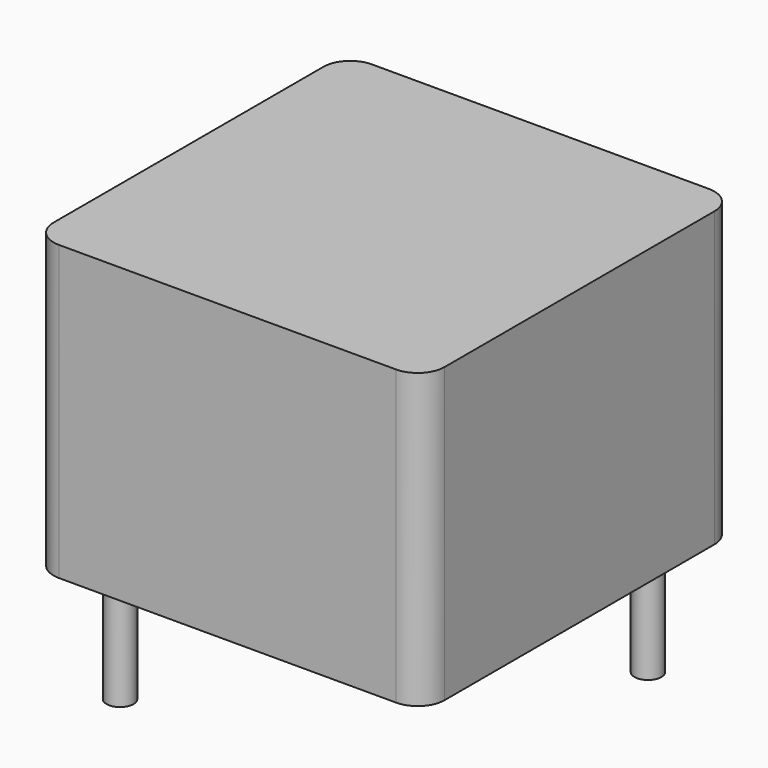
from build123d import *

# Parameters (mm, degrees)
SKETCH001_R  = 0.35
PAD001_DEPTH = 3.5
SKETCH_W     = 10.16
SKETCH_H     = 10.16
PAD_DEPTH    = 7.62
FILLET_R     = 0.7


with BuildPart() as pad001:
    # Sketch001 → Pad001 (new body)
    with BuildSketch(Plane.XY.offset(0.5)):
        Circle(SKETCH001_R)
        with Locations((7.62, 7.62)):
            Circle(SKETCH001_R)
    extrude(amount=-PAD001_DEPTH)


with BuildPart() as fillet_body:
    # Sketch → Pad (new body)
    with BuildSketch(Plane.XY.offset(0.1)):
        with Locations((3.81, 3.81)):
            Rectangle(SKETCH_W, SKETCH_H)
    extrude(amount=PAD_DEPTH)

    # Fillet
    fillet_edges = [fillet_body.edges().sort_by_distance(p)[0] for p in [
        (8.89, -1.27, 3.91),
        (8.89, 8.89, 3.91),
        (-1.27, -1.27, 3.91),
        (-1.27, 8.89, 3.91),
    ]]
    fillet(fillet_edges, radius=FILLET_R)


solid = Compound([pad001.part, fillet_body.part])
